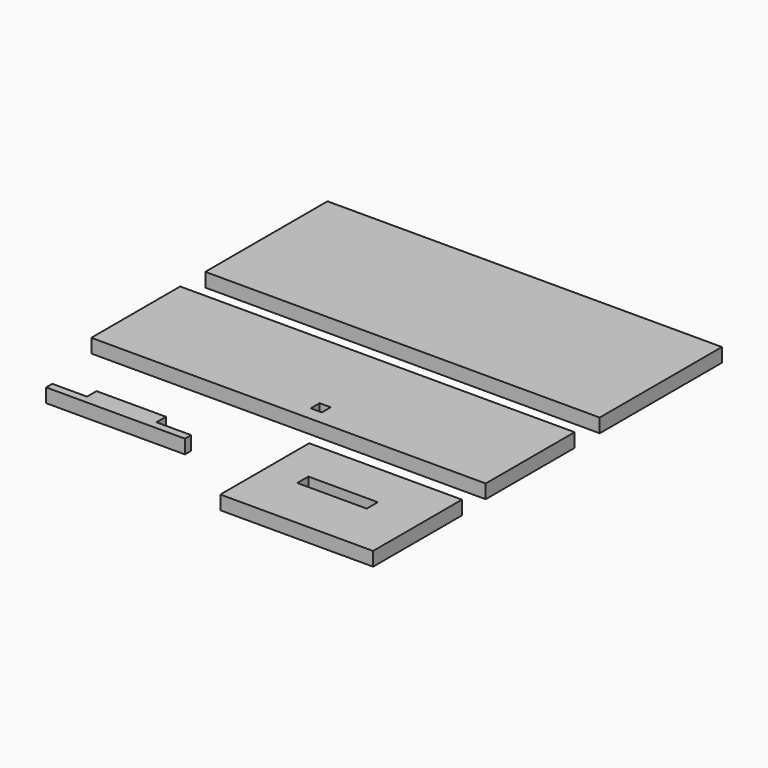
from build123d import *

# Parameters (mm, degrees)
F0_W     = 180.34
F0_H     = 50.8
F0_W_2   = 5.08
F0_H_2   = 5.08
F1_DEPTH = 6.35
F2_W     = 69.85
F2_H     = 50.8
F2_W_2   = 31.75
F2_H_2   = 6.35
F3_DEPTH = 6.35
F4_W     = 180.34
F4_H     = 69.85
F5_DEPTH = 6.35
F7_DEPTH = 6.35


with BuildPart() as f1:
    # F0 (on Top) → F1 (new body)
    with BuildSketch(Plane.XY):
        Rectangle(F0_W, F0_H)
        with Locations((7.62, -16.51)):
            Rectangle(F0_W_2, F0_H_2, mode=Mode.SUBTRACT)
    extrude(amount=F1_DEPTH)


with BuildPart() as f3:
    # F2 (on Top) → F3 (new body)
    with BuildSketch(Plane.XY):
        with Locations((56.439783, -65.855933)):
            Rectangle(F2_W, F2_H)
        with Locations((53.264783, -63.950933)):
            Rectangle(F2_W_2, F2_H_2, mode=Mode.SUBTRACT)
    extrude(amount=F3_DEPTH)


with BuildPart() as f5:
    # F4 (on Top) → F5 (new body)
    with BuildSketch(Plane.XY):
        with Locations((-0.072438, 74.761368)):
            Rectangle(F4_W, F4_H)
    extrude(amount=F5_DEPTH)


with BuildPart() as f7:
    # F6 (on Top) → F7 (new body)
    with BuildSketch(Plane.XY):
        Polygon((-62.93563, -61.877686), (-78.81063, -61.877686), (-78.81063, -65.433686), (-15.31063, -65.433686), (-15.31063, -61.877686), (-31.18563, -61.877686), (-31.18563, -56.435704), (-62.93563, -56.435704), align=None)
    extrude(amount=F7_DEPTH)


solid = Compound([f1.part, f3.part, f5.part, f7.part])
